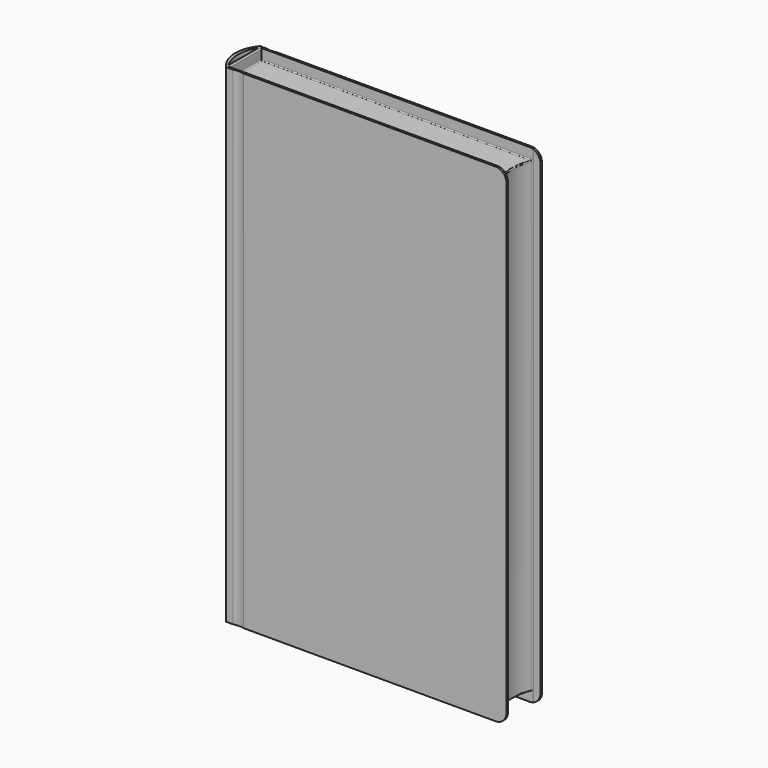
from build123d import *

# Parameters (mm, degrees)
PAD_DEPTH       = 500
POCKET_DEPTH    = 500.001
SKETCH003_W     = 279.511841
SKETCH003_H     = 41.381086
POCKET001_DEPTH = 11
SKETCH004_W     = 279.511841
SKETCH004_H     = 41.381086
POCKET002_DEPTH = 11
FILLET_R        = 11
FILLET001_R     = 11
FILLET002_R     = 11
FILLET003_R     = 11
FILLET004_R     = 1
FILLET005_R     = 1
FILLET006_R     = 1
FILLET007_R     = 1
FILLET008_R     = 1
FILLET009_R     = 1
FILLET010_R     = 1
FILLET011_R     = 1
FILLET012_R     = 1


with BuildPart() as part:
    # Sketch → Pad (new body)
    with BuildSketch(Plane.XY):
        with BuildLine():
            Line((-138.582545, 21.821575), (-131.380308, 21.821575))
            ThreePointArc((-131.380308, 21.821575), (-126.082547, 21.151575), (-120.784785, 21.821574))
            Line((-120.784785, 21.821574), (150.124329, 21.820815))
            Line((150.124329, 21.820815), (150.124329, 19.820815))
            Line((150.124329, 19.820815), (142.09854, 19.820815))
            ThreePointArc((142.09854, 19.820815), (138.104465, -0.955112), (142.872673, -21.567147))
            Line((142.872673, -21.567147), (150, -21.567147))
            Line((150, -23.567147), (150, -21.567147))
            Line((150, -23.567147), (-119.215899, -23.567147))
            ThreePointArc((-119.215899, -23.567147), (-124.513732, -22.897147), (-129.811561, -23.567181))
            Line((-129.811561, -23.567181), (-137.013663, -23.567615))
            ThreePointArc((-138.582545, 21.821575), (-146.49631, -1.173674), (-137.013663, -23.567615))
        make_face()
    extrude(amount=PAD_DEPTH)

    # Sketch002 (on Face13 of Pad) → Pocket (cut, through all)
    with BuildSketch(Plane(origin=(0, 0, 0), x_dir=(1, 0, 0), z_dir=(0, 0, -1))):
        with BuildLine():
            ThreePointArc((-137.767908, 19.793697), (-143.323513, 0.494262), (-137.767908, -18.805173))
            Line((-137.767908, 19.793697), (-137.767908, -18.805173))
        make_face()
    extrude(amount=-POCKET_DEPTH, mode=Mode.SUBTRACT)

    # Sketch003 (on Face4 of Pocket) → Pocket001 (cut)
    with BuildSketch(Plane(origin=(0, 0, 0), x_dir=(1, 0, 0), z_dir=(0, 0, -1))):
        with Locations((4.285034, 0.875882)):
            Rectangle(SKETCH003_W, SKETCH003_H)
    extrude(amount=-POCKET001_DEPTH, mode=Mode.SUBTRACT)

    # Sketch004 (on Face4 of Pocket) → Pocket002 (cut)
    with BuildSketch(Plane(origin=(0, 0, 500), x_dir=(1, 0, 0), z_dir=(0, 0, -1))):
        with Locations((4.285034, 0.875882)):
            Rectangle(SKETCH004_W, SKETCH004_H)
    extrude(amount=POCKET002_DEPTH, mode=Mode.SUBTRACT)

    # Fillet
    fillet_edges = [part.edges().sort_by_distance(p)[0] for p in [
        (150.124329, 20.820815, 500),
    ]]
    fillet(fillet_edges, radius=FILLET_R)

    # Fillet001
    fillet001_edges = [part.edges().sort_by_distance(p)[0] for p in [
        (150, -22.567147, 500),
    ]]
    fillet(fillet001_edges, radius=FILLET001_R)

    # Fillet002
    fillet002_edges = [part.edges().sort_by_distance(p)[0] for p in [
        (150.124329, 20.820815, 0),
    ]]
    fillet(fillet002_edges, radius=FILLET002_R)

    # Fillet003
    fillet003_edges = [part.edges().sort_by_distance(p)[0] for p in [
        (150, -22.567147, 0),
    ]]
    fillet(fillet003_edges, radius=FILLET003_R)

    # Fillet004
    fillet004_edges = [part.edges().sort_by_distance(p)[0] for p in [
        (138.10452, -0.958052, 489),
    ]]
    fillet(fillet004_edges, radius=FILLET004_R)

    # Fillet005
    fillet005_edges = [part.edges().sort_by_distance(p)[0] for p in [
        (138.10452, -0.958052, 11),
    ]]
    fillet(fillet005_edges, radius=FILLET005_R)

    # Fillet006
    fillet006_edges = [part.edges().sort_by_distance(p)[0] for p in [
        (2.770959, 19.814661, 11),
    ]]
    fillet(fillet006_edges, radius=FILLET006_R)

    # Fillet007
    fillet007_edges = [part.edges().sort_by_distance(p)[0] for p in [
        (3.15028, -21.566425, 11),
    ]]
    fillet(fillet007_edges, radius=FILLET007_R)

    # Fillet008
    fillet008_edges = [part.edges().sort_by_distance(p)[0] for p in [
        (-135.470886, -0.875882, 11),
        (-135.470886, -21.273532, 10.707107),
        (-135.470886, 19.521768, 10.707107),
        (-135.470886, -21.566425, 5),
        (-135.470886, 19.814661, 5),
        (-135.470886, -0.875882, 0),
    ]]
    fillet(fillet008_edges, radius=FILLET008_R)

    # Fillet009
    fillet009_edges = [part.edges().sort_by_distance(p)[0] for p in [
        (3.15028, -21.566425, 489),
        (137.104282, -0.954491, 489),
        (-135.470886, -0.875882, 489),
        (2.770959, 19.814661, 489),
    ]]
    fillet(fillet009_edges, radius=FILLET009_R)

    # Fillet010
    fillet010_edges = [part.edges().sort_by_distance(p)[0] for p in [
        (-135.470886, -0.875882, 500),
    ]]
    fillet(fillet010_edges, radius=FILLET010_R)

    # Fillet011
    fillet011_edges = [part.edges().sort_by_distance(p)[0] for p in [
        (142.872673, -21.567147, 250),
    ]]
    fillet(fillet011_edges, radius=FILLET011_R)

    # Fillet012
    fillet012_edges = [part.edges().sort_by_distance(p)[0] for p in [
        (142.09854, 19.820815, 250),
    ]]
    fillet(fillet012_edges, radius=FILLET012_R)


solid = part.part
